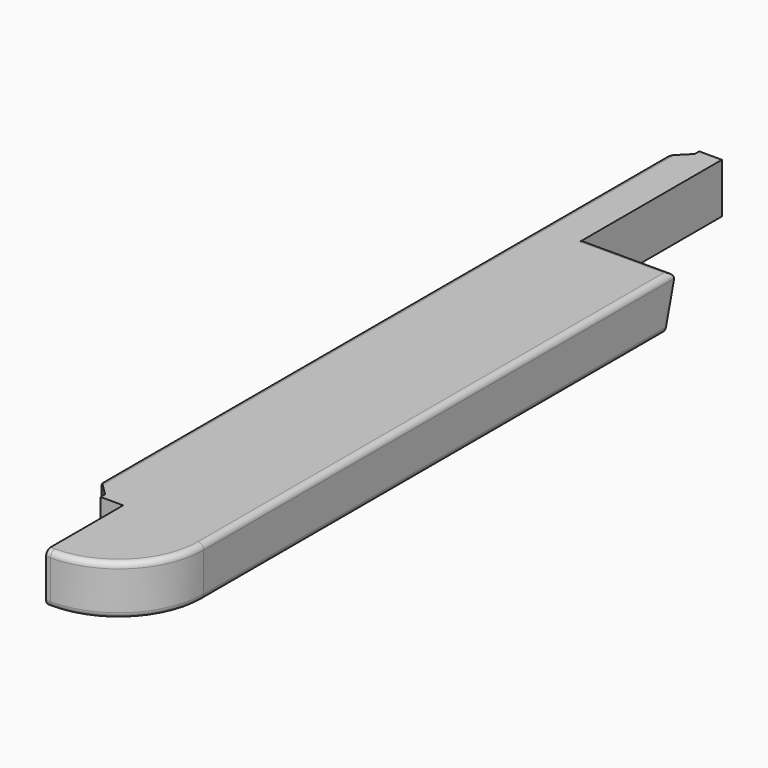
from build123d import *

# Parameters (mm, degrees)
F1_DEPTH = 44
F3_DEPTH = 79
F4_R     = 5


with BuildPart() as f1:
    # F0 (on Top) → F1 (new body)
    with BuildSketch(Plane.XY):
        with BuildLine():
            Line((35, 85), (35, 0))
            Line((35, 0), (39, 0))
            ThreePointArc((39, 0), (92.033008589, 21.966991411), (114, 75))
            Line((114, 75), (114, 595))
            Line((114, 595), (35, 595))
            Line((35, 595), (35, 745))
            Line((35, 745), (15, 745))
            Line((15, 745), (15, 740))
            Line((15, 740), (0, 725))
            Line((0, 725), (0, 105))
            Line((0, 105), (15, 90))
            Line((15, 90), (15, 85))
            Line((15, 85), (35, 85))
        make_face()
    extrude(amount=-F1_DEPTH)

    # F2 (on face) → F3 (cut)
    with BuildSketch(Plane.YZ.offset(114)):
        Polygon((595, -44), (595, 0), (583.210235533, -44), align=None)
    extrude(amount=-F3_DEPTH, mode=Mode.SUBTRACT)

    # F4
    f4_edges = [f1.edges().sort_by_distance(p)[0] for p in [
        (37, 0, 0),
        (114, 329.105118, -44),
        (0, 415, 0),
        (0, 415, -44),
        (74.5, 595, 0),
    ]]
    fillet(f4_edges, radius=F4_R)


solid = f1.part
